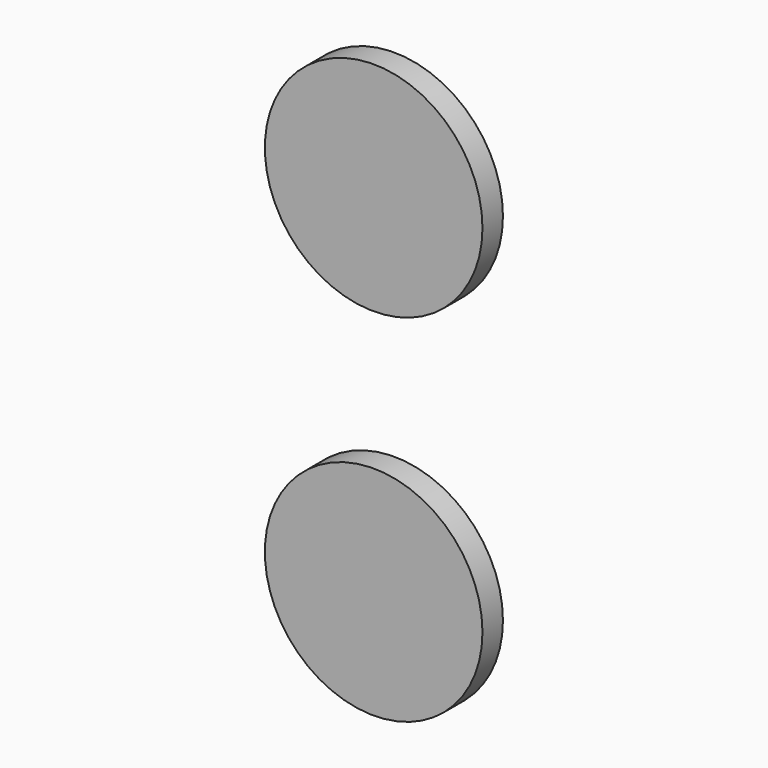
from build123d import *

# Parameters (mm, degrees)
F0_R     = 212.5
F1_DEPTH = 25


with BuildPart() as f1:
    # F0 (on Front) → F1 (new body, symmetric)
    with BuildSketch(Plane.XZ):
        with Locations((0, 347.5)):
            Circle(F0_R)
    extrude(amount=F1_DEPTH, both=True)


with BuildPart() as f1b:
    # F0 (on Front) → F1, piece 2 (new body, symmetric)
    with BuildSketch(Plane.XZ):
        with Locations((0, -347.5)):
            Circle(F0_R)
    extrude(amount=F1_DEPTH, both=True)


solid = Compound([f1.part, f1b.part])
